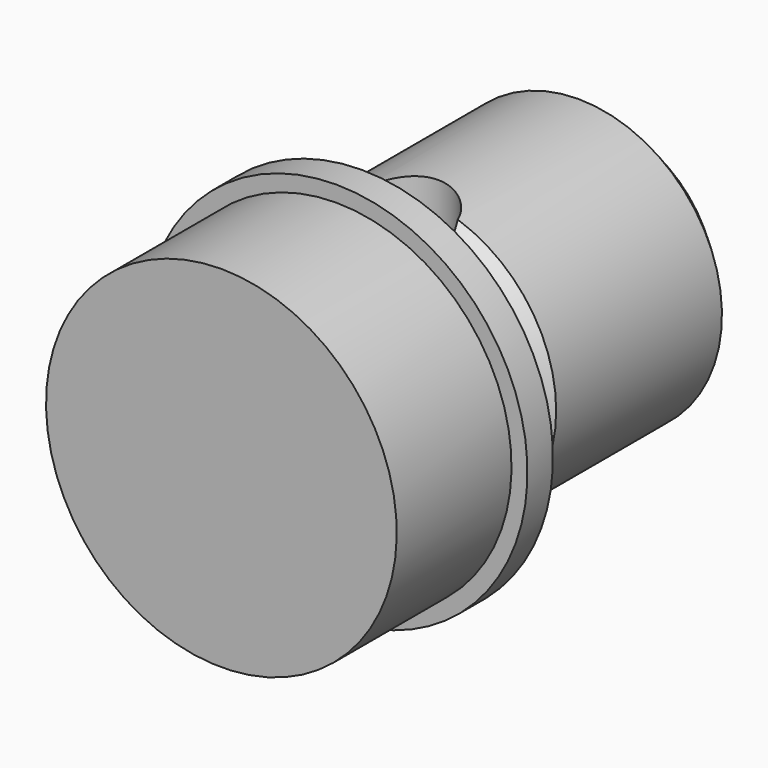
from build123d import *

# Parameters (mm, degrees)
F2_SIZE  = 1
F3_R     = 1.5
F4_DEPTH = 25


with BuildPart() as f1:
    # F0 (on Right) → F1 (revolve)
    with BuildSketch(Plane.YZ):
        Polygon((4.5, 5.5), (0, 5.5), (0, 0), (4.5, 0), (4.5, 2), (15, 2), (15, 4.5), (6.5, 4.5), (6.5, 3), (5.5, 3), (5.5, 6), (4.5, 6), align=None)
    revolve(axis=Axis((0, 8.7408488616, 0), (0, 1, 0)))

    # F2
    f2_edges = [f1.edges().sort_by_distance(p)[0] for p in [
        (0, 15, -4.5),
        (0, 6.5, -4.5),
    ]]
    chamfer(f2_edges, length=F2_SIZE)

    # F3 (on Top) → F4 (cut, symmetric)
    with BuildSketch(Plane.XY):
        with Locations((0, 7)):
            Circle(F3_R)
    extrude(amount=F4_DEPTH, both=True, mode=Mode.SUBTRACT)


solid = f1.part
